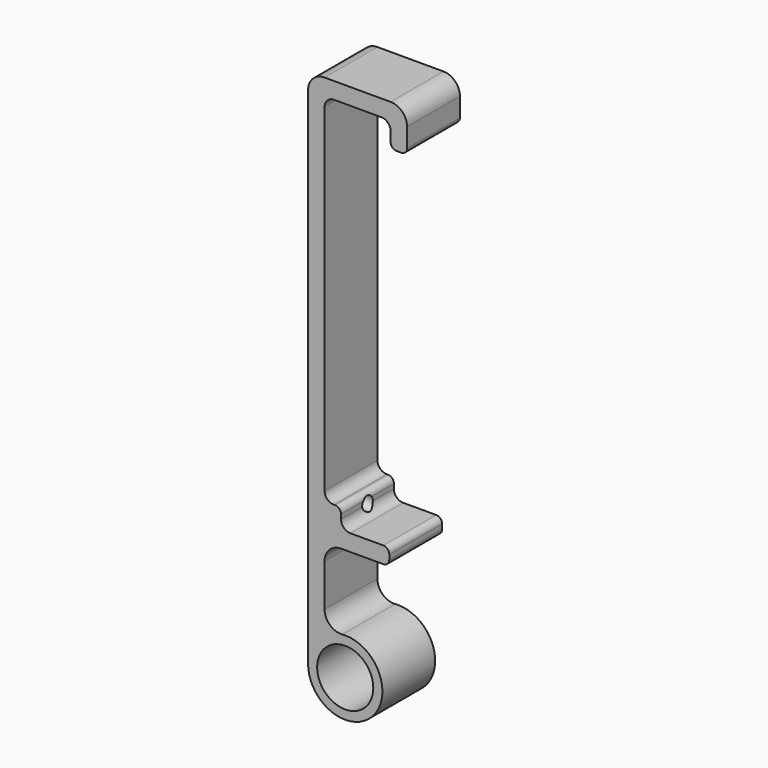
from build123d import *

# Parameters (mm, degrees)
F0_R     = 10.795
F1_DEPTH = 25.4
F2_R     = 2.286
F3_R     = 3.556
F4_R     = 6.35
F5_R     = 2.5527
F6_DEPTH = 12.7


with BuildPart() as f1:
    # F0 (on Front) → F1 (new body)
    with BuildSketch(Plane.XZ):
        with BuildLine():
            Line((-14.2875, 200.66), (-14.2875, 0))
            ThreePointArc((-14.2875, 0), (12.600391, -6.735192), (-7.9375, 11.879762))
            Line((-7.9375, 11.879762), (-7.9375, 43.18))
            Line((-7.9375, 43.18), (16.9545, 43.18))
            Line((16.9545, 43.18), (16.9545, 49.53))
            Line((16.9545, 49.53), (-1.5875, 49.53))
            Line((-1.5875, 49.53), (-1.5875, 57.15))
            Line((-1.5875, 57.15), (-7.9375, 57.15))
            Line((-7.9375, 57.15), (-7.9375, 194.31))
            Line((-7.9375, 194.31), (17.4625, 194.31))
            Line((17.4625, 194.31), (17.4625, 184.785))
            Line((17.4625, 184.785), (23.8125, 184.785))
            Line((23.8125, 184.785), (23.8125, 200.66))
            Line((23.8125, 200.66), (-14.2875, 200.66))
        make_face()
        Circle(F0_R, mode=Mode.SUBTRACT)
    extrude(amount=F1_DEPTH)

    # F2
    f2_edges = [f1.edges().sort_by_distance(p)[0] for p in [
        (16.9545, -12.7, 43.18),
        (16.9545, -12.7, 49.53),
        (23.8125, -12.7, 184.785),
        (17.4625, -12.7, 184.785),
        (-1.5875, -12.7, 57.15),
    ]]
    fillet(f2_edges, radius=F2_R)

    # F3
    f3_edges = [f1.edges().sort_by_distance(p)[0] for p in [
        (17.4625, -12.7, 194.31),
        (-7.9375, -12.7, 194.31),
        (-7.9375, -12.7, 57.15),
        (-1.5875, -12.7, 49.53),
    ]]
    fillet(f3_edges, radius=F3_R)

    # F4
    f4_edges = [f1.edges().sort_by_distance(p)[0] for p in [
        (-7.9375, -12.7, 43.18),
        (23.8125, -12.7, 200.66),
        (-14.2875, -12.7, 200.66),
        (-7.9375, -12.7, 11.879762),
    ]]
    fillet(f4_edges, radius=F4_R)

    # F5 (on face) → F6 (cut, symmetric)
    with BuildSketch(Plane.YZ.offset(-7.9375)):
        with Locations((-12.7, 53.34)):
            Circle(F5_R)
    extrude(amount=F6_DEPTH, both=True, mode=Mode.SUBTRACT)


solid = f1.part
